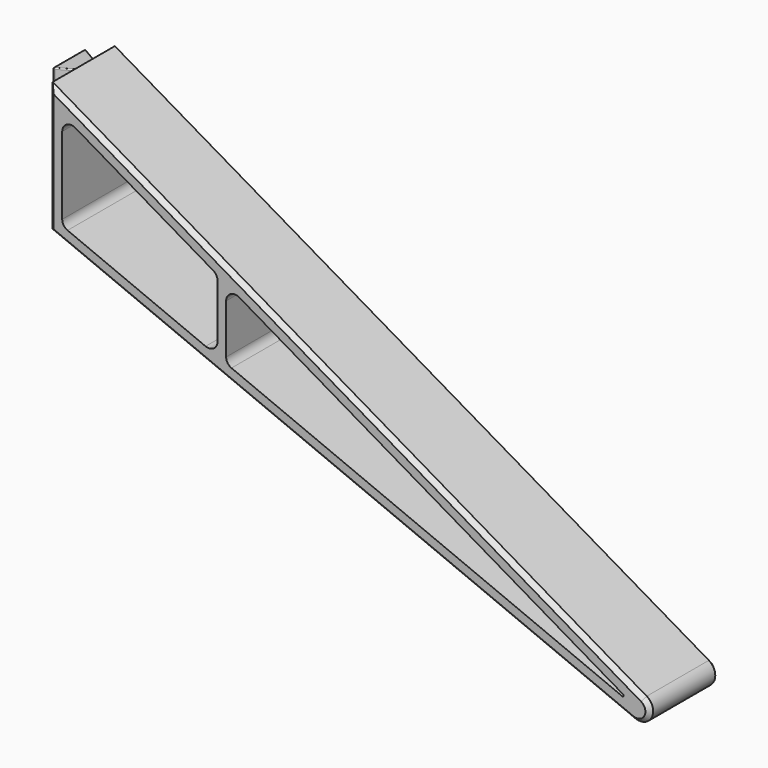
from build123d import *

# Parameters (mm, degrees)
F1_DEPTH = 20
F3_DEPTH = 30
F4_R     = 2
F5_SIZE  = 1
F6_R     = 0.25


with BuildPart() as f1:
    # F0 (on Front) → F1 (new body)
    with BuildSketch(Plane.XZ):
        with BuildLine():
            Line((-46, 30), (-46, 0))
            Line((-46, 0), (89.051266, -55.940066))
            ThreePointArc((89.051266, -55.940066), (92.886071, -54.503098), (91.714375, -50.579104))
            Line((91.714375, -50.579104), (-46, 30))
        make_face()
        Polygon((-5, 2.534367), (90.199316, -53.168427), (-5, -13.735579), (-7, -12.907152), (-43, 2.004536), (-43, 24.768836), (-7, 3.704603), align=None, mode=Mode.SUBTRACT)
        Polygon((-5, -13.735579), (-5, 2.534367), (-7, 3.704603), (-7, -12.907152), align=None)
    extrude(amount=F1_DEPTH)

    # F2 (on Top) → F3 (join)
    with BuildSketch(Plane.XY):
        Polygon((-49.464102, -14.75), (-46, -12.75), (-46, -7.25), (-49.464102, -5.25), align=None)
    extrude(amount=F3_DEPTH)

    # F4
    f4_edges = [f1.edges().sort_by_distance(p)[0] for p in [
        (-7, -10, -12.907152),
        (-43, -10, 2.004536),
        (-43, -10, 24.768836),
        (-7, -10, 3.704603),
        (-5, -10, 2.534367),
        (-5, -10, -13.735579),
    ]]
    fillet(f4_edges, radius=F4_R)

    # F5
    f5_edges = [f1.edges().sort_by_distance(p)[0] for p in [
        (-46, 0, 15),
        (-46, -20, 15),
        (21.525633, -20, -27.970033),
        (21.525633, 0, -27.970033),
    ]]
    chamfer(f5_edges, length=F5_SIZE)

    # F6
    f6_edges = [f1.edges().sort_by_distance(p)[0] for p in [
        (-49.464102, -14.75, 15),
        (-49.464102, -5.25, 15),
        (-49.464102, -10, 0),
        (-49.464102, -10, 30),
        (-47.732051, -13.75, 30),
        (-47.732051, -6.25, 30),
        (-47.732051, -6.25, 0),
        (-47.732051, -13.75, 0),
        (90.199316, -10, -53.168427),
    ]]
    fillet(f6_edges, radius=F6_R)


solid = f1.part
